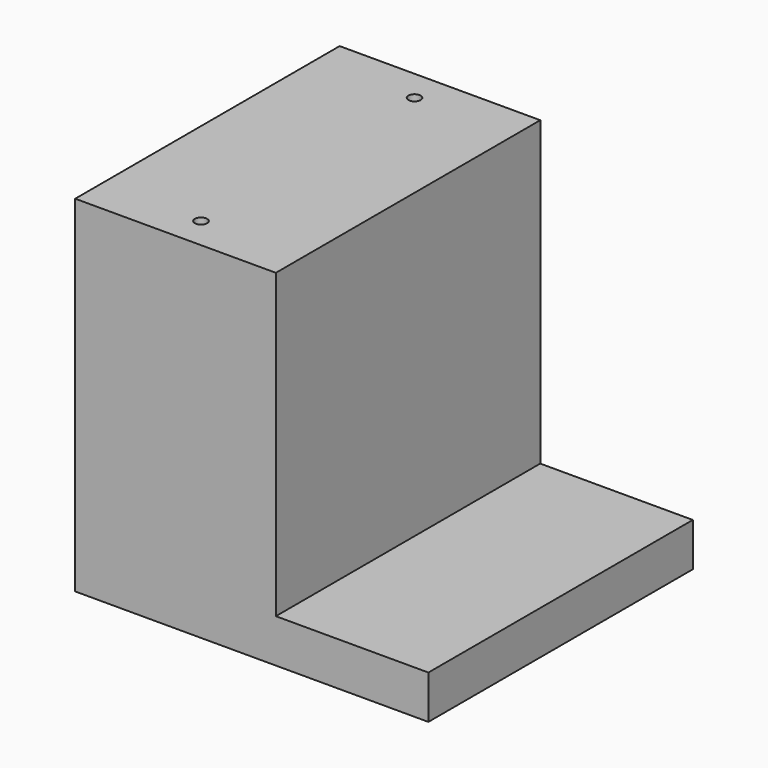
from build123d import *

# Parameters (mm, degrees)
F1_DEPTH       = 82.55
F3_D           = 3.048
F3_DEPTH       = 12.7
F3_CBORE_D     = 381
F3_CBORE_DEPTH = 2.54
F3_TIP         = 0.9157115834


with BuildPart() as f1:
    # F0 (on Front) → F1 (new body)
    with BuildSketch(Plane.XZ):
        Polygon((0, 88.9), (0, 0), (88.2142, 0), (88.2142, 10.8585003763), (50.1142, 10.8585003763), (50.1142, 88.9), align=None)
    extrude(amount=F1_DEPTH)

    # F3
    with Locations(Plane.XY.offset(88.9)):
        with Locations((25.0571, -7.9375), (25.0571, -74.5998)):
            CounterBoreHole(F3_D / 2, F3_CBORE_D / 2, F3_CBORE_DEPTH, depth=F3_DEPTH)
            with Locations((0, 0, -(F3_DEPTH + F3_TIP / 2))):  # 118° drill point
                Cone(0, F3_D / 2, F3_TIP, mode=Mode.SUBTRACT)


solid = f1.part
